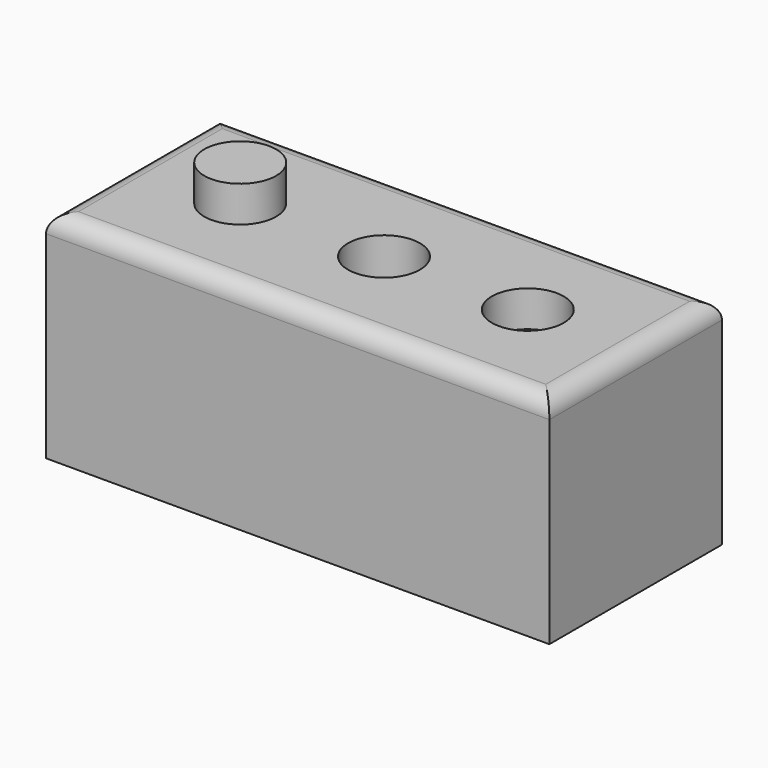
from build123d import *

# Parameters (mm, degrees)
F0_W     = 140
F0_H     = 60
F1_DEPTH = 60
F2_R     = 10
F5_DEPTH = 10
F4_R     = 10
F6_DEPTH = 102.5
F3_R     = 10
F7_DEPTH = 10
F8_R     = 5


with BuildPart() as f1:
    # F0 (on Top) → F1 (new body)
    with BuildSketch(Plane.XY):
        Rectangle(F0_W, F0_H)
    extrude(amount=F1_DEPTH)

    # F2 (on face) → F5 (join)
    with BuildSketch(Plane.XY.offset(60)):
        with Locations((-40, 0)):
            Circle(F2_R)
    extrude(amount=F5_DEPTH)

    # F4 (on face) → F6 (cut)
    with BuildSketch(Plane.XY.offset(60)):
        Circle(F4_R)
    extrude(amount=-F6_DEPTH, mode=Mode.SUBTRACT)

    # F3 (on face) → F7 (cut)
    with BuildSketch(Plane.XY.offset(60)):
        with Locations((40, 0)):
            Circle(F3_R)
    extrude(amount=-F7_DEPTH, mode=Mode.SUBTRACT)

    # F8
    f8_edges = [f1.edges().sort_by_distance(p)[0] for p in [
        (0, 30, 60),
        (-70, 0, 60),
        (0, -30, 60),
        (70, 0, 60),
    ]]
    fillet(f8_edges, radius=F8_R)


solid = f1.part
